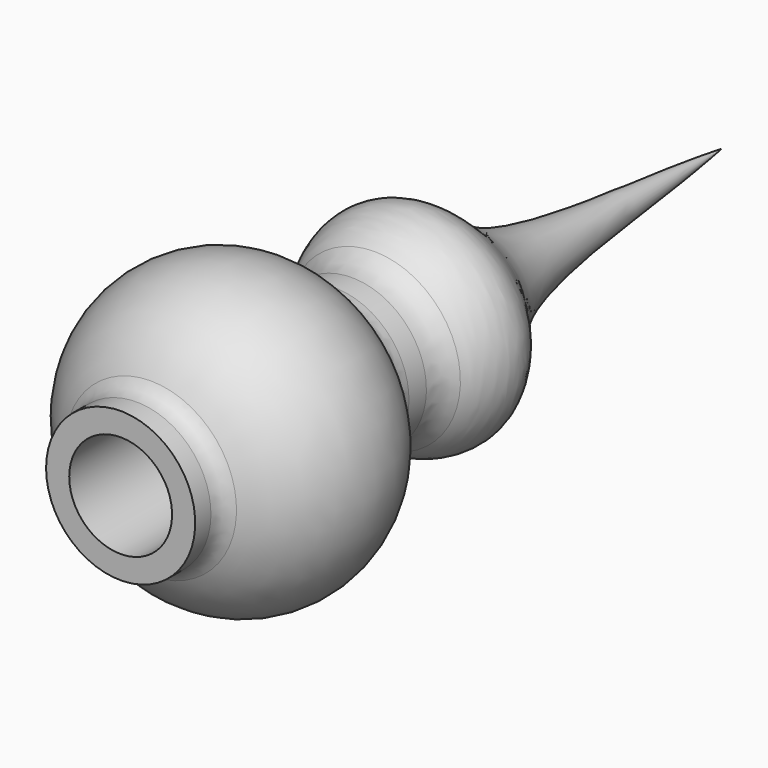
from build123d import *

# Parameters (mm, degrees)
F2_R = 10
F3_R = 5
F4_R = 10


with BuildPart() as f1:
    # F0 (on Top) → F1 (revolve)
    with BuildSketch(Plane.XY):
        with BuildLine():
            Line((-13, -79.2032987689), (-13, -9.6874993535))
            Line((-13, -9.6874993535), (-13, 18.0972066788))
            Line((-13, 18.0972066788), (0, 18.0972066788))
            Line((0, 18.0972066788), (0, 110.7967012311))
            add(Edge.make_bspline(
                [(-18.8506320119, -1.1898340561), (-23.6957277937, 1.0720088674), (-31.9950275022, 17.65867519), (-4.229903734, 33.6674467365), (-4.4944601274, 80.2553934973), (0, 110.7967012311)],
                knots=[0, 0, 0, 0, 0.233814749, 0.5090100894, 1, 1, 1, 1], degree=3))
            Line((-18.8506320119, -1.1898340561), (-18.8506320119, -18.001210414))
            ThreePointArc((-18.8506320119, -18.001210414), (-37.6471062314, -44.4453990612), (-18.8506320119, -70.8895877084))
            Line((-18.8506320119, -70.8895877084), (-18.8506320119, -79.2032987689))
            Line((-18.8506320119, -79.2032987689), (-13, -79.2032987689))
        make_face()
    revolve(axis=Axis((0, 10.9067951135, 0), (0, -1, 0)))

    # F2
    f2_edges = [f1.edges().sort_by_distance(p)[0] for p in [
        (18.850632, -1.189834, 0),
        (18.850632, -18.00121, 0),
    ]]
    fillet(f2_edges, radius=F2_R)

    # F3
    f3_edges = [f1.edges().sort_by_distance(p)[0] for p in [
        (18.850632, -70.889588, 0),
    ]]
    fillet(f3_edges, radius=F3_R)

    # F4
    f4_edges = [f1.edges().sort_by_distance(p)[0] for p in [
        (13, 18.097207, 0),
    ]]
    fillet(f4_edges, radius=F4_R)


solid = f1.part
